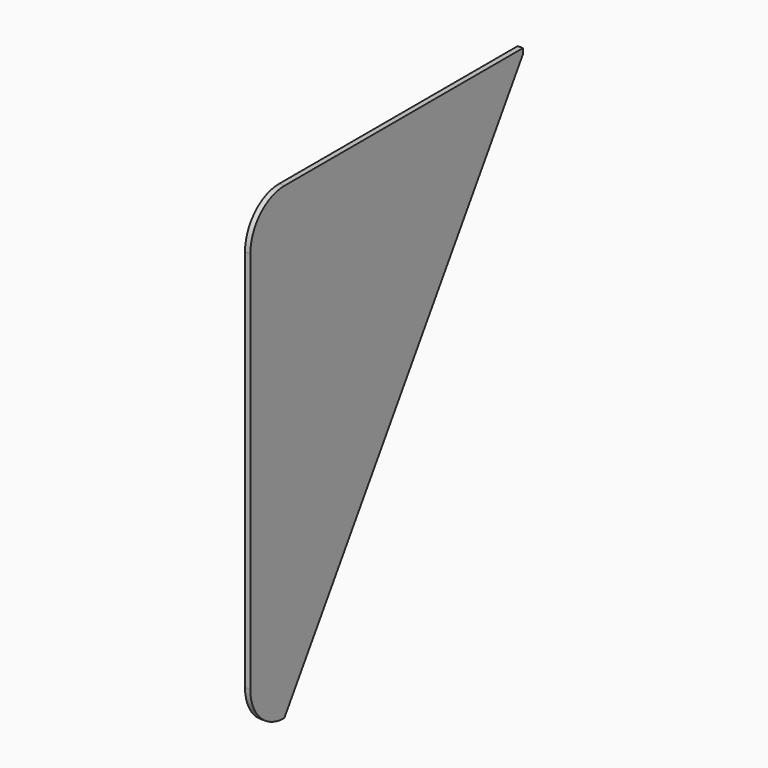
from build123d import *

# Parameters (mm, degrees)
F0_W     = 177.8
F0_H     = 3.175
F1_DEPTH = 3.175


with BuildPart() as f1:
    # F0 (on Right) → F1 (new body)
    with BuildSketch(Plane.YZ):
        Rectangle(F0_W, F0_H)
        with BuildLine():
            Line((-88.9, -1.5875), (-88.9, 1.5875))
            ThreePointArc((-88.9, 1.5875), (-106.860512, -5.851988), (-114.3, -23.8125))
            Line((-114.3, -23.8125), (-111.125, -23.8125))
            ThreePointArc((-111.125, -23.8125), (-104.615448, -8.097052), (-88.9, -1.5875))
        make_face()
        with BuildLine():
            Line((-88.983196, -277.812364), (88.9, -1.5875))
            Line((88.9, -1.5875), (-88.9, -1.5875))
            ThreePointArc((-88.9, -1.5875), (-104.615448, -8.097052), (-111.125, -23.8125))
            Line((-111.125, -23.8125), (-111.125, -248.493359))
            Line((-111.125, -248.493359), (-114.3, -252.4125))
            ThreePointArc((-114.3, -252.4125), (-106.889902, -270.343574), (-88.983196, -277.812364))
        make_face()
        Polygon((-111.125, -23.8125), (-114.3, -23.8125), (-114.3, -252.4125), (-111.125, -248.493359), align=None)
    extrude(amount=F1_DEPTH)


solid = f1.part
